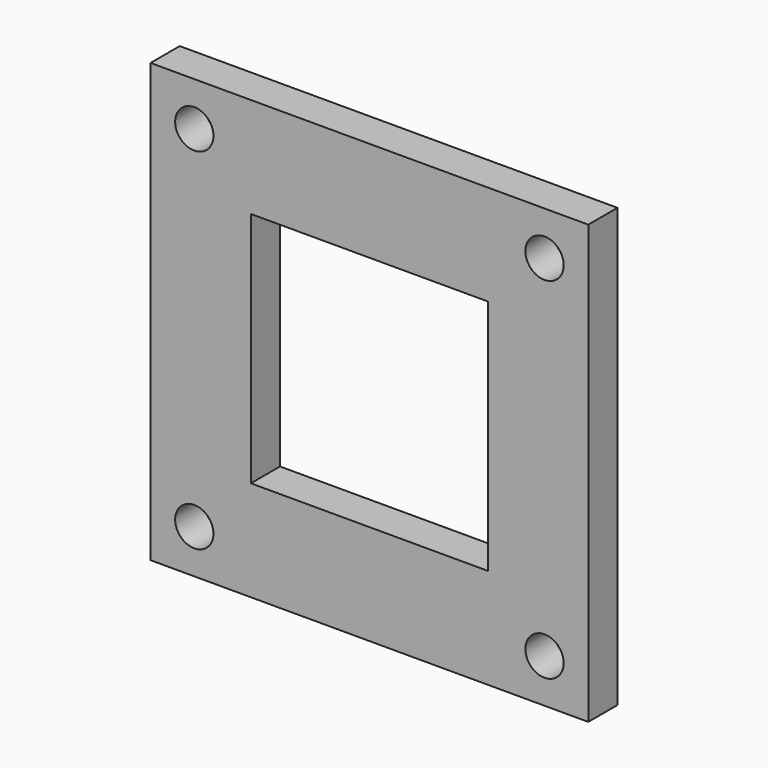
from build123d import *

# Parameters (mm, degrees)
F0_W     = 381
F0_H     = 381
F0_W_2   = 304.8
F0_H_2   = 304.8
F0_W_3   = 206.375
F0_H_3   = 206.375
F1_DEPTH = 31.75
F2_D     = 33.3375


with BuildPart() as f1:
    # F0 (on Front) → F1 (new body)
    with BuildSketch(Plane.XZ):
        Rectangle(F0_W, F0_H)
        Rectangle(F0_W_2, F0_H_2, mode=Mode.SUBTRACT)
        Rectangle(F0_W_2, F0_H_2)
        Rectangle(F0_W_3, F0_H_3, mode=Mode.SUBTRACT)
    extrude(amount=-F1_DEPTH)

    # F2 (through all)
    with Locations(Plane.XZ):
        with Locations((-152.4, 152.4), (152.4, 152.4), (152.4, -152.4), (-152.4, -152.4)):
            Hole(F2_D / 2)


solid = f1.part
